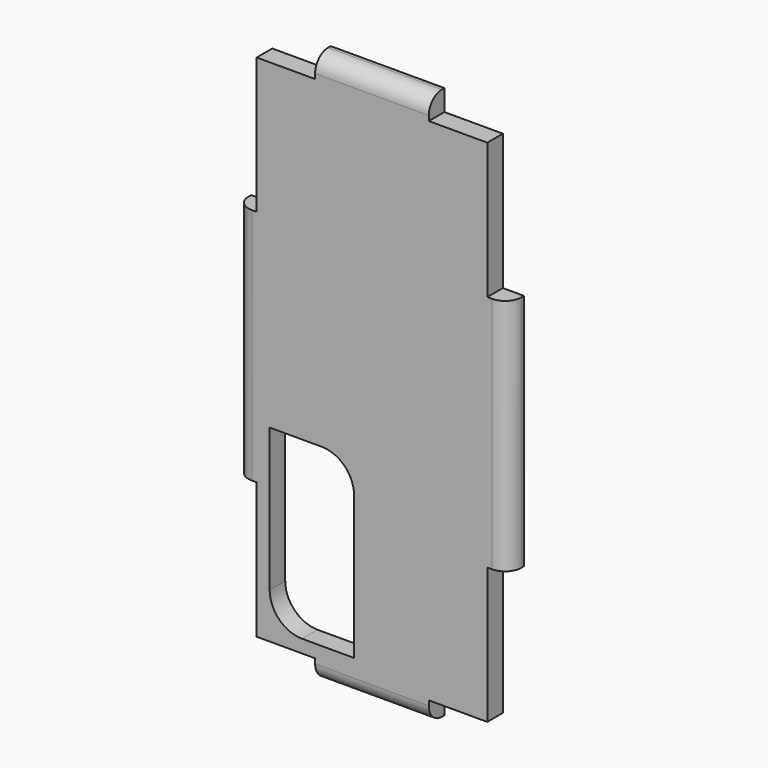
from build123d import *

# Parameters (mm, degrees)
F0_W     = 42
F0_H     = 85
F1_DEPTH = 3
F2_R     = 3
F4_DEPTH = 3
F5_W     = 13
F5_H     = 27
F6_DEPTH = 3
F7_R     = 5
F8_R     = 2.5


with BuildPart() as f1:
    # F0 (on Front) → F1 (new body)
    with BuildSketch(Plane.XZ):
        with Locations((-12.290565, -9.565399)):
            Rectangle(F0_W, F0_H)
    extrude(amount=F1_DEPTH)

    # F2
    f2_edges = [f1.edges().sort_by_distance(p)[0] for p in [
        (-33.290565, -1.5, 32.934601),
        (8.709435, -1.5, 32.934601),
        (8.709435, -1.5, -52.065399),
        (-33.290565, -1.5, -52.065399),
    ]]
    fillet(f2_edges, radius=F2_R)

    # F3 (on face) → F4 (cut, through all)
    with BuildSketch(Plane(origin=(0, 0, 0), x_dir=(-1, 0, 0), z_dir=(0, 1, 0))):
        with BuildLine():
            Line((-5.459435, 8.759601), (-5.459435, 29.684601))
            Line((-5.459435, 29.684601), (3.540565, 29.684601))
            Line((3.540565, 29.684601), (3.540565, 32.934601))
            Line((3.540565, 32.934601), (-5.709435, 32.934601))
            ThreePointArc((-5.709435, 32.934601), (-7.830755, 32.055922), (-8.709435, 29.934601))
            Line((-8.709435, 29.934601), (-8.709435, 8.759601))
            Line((-8.709435, 8.759601), (-5.459435, 8.759601))
        make_face()
        with BuildLine():
            Line((21.040565, 32.934601), (21.040565, 29.684601))
            Line((21.040565, 29.684601), (30.040565, 29.684601))
            Line((30.040565, 29.684601), (30.040565, 8.759601))
            Line((30.040565, 8.759601), (33.290565, 8.759601))
            Line((33.290565, 8.759601), (33.290565, 29.934601))
            ThreePointArc((33.290565, 29.934601), (32.411885, 32.055922), (30.290565, 32.934601))
            Line((30.290565, 32.934601), (21.040565, 32.934601))
        make_face()
        with BuildLine():
            Line((33.290565, -27.890399), (30.040565, -27.890399))
            Line((30.040565, -27.890399), (30.040565, -48.815399))
            Line((30.040565, -48.815399), (21.040565, -48.815399))
            Line((21.040565, -48.815399), (21.040565, -52.065399))
            Line((21.040565, -52.065399), (30.290565, -52.065399))
            ThreePointArc((30.290565, -52.065399), (32.411885, -51.186719), (33.290565, -49.065399))
            Line((33.290565, -49.065399), (33.290565, -27.890399))
        make_face()
        with BuildLine():
            Line((-5.459435, -48.815399), (-5.459435, -27.890399))
            Line((-5.459435, -27.890399), (-8.709435, -27.890399))
            Line((-8.709435, -27.890399), (-8.709435, -49.065399))
            ThreePointArc((-8.709435, -49.065399), (-7.830755, -51.186719), (-5.709435, -52.065399))
            Line((-5.709435, -52.065399), (3.540565, -52.065399))
            Line((3.540565, -52.065399), (3.540565, -48.815399))
            Line((3.540565, -48.815399), (-5.459435, -48.815399))
        make_face()
    extrude(amount=-F4_DEPTH, mode=Mode.SUBTRACT)

    # F5 (on face) → F6 (cut, through all)
    with BuildSketch(Plane.XZ.offset(3)):
        with Locations((-21.540565, -33.315399)):
            Rectangle(F5_W, F5_H)
    extrude(amount=-F6_DEPTH, mode=Mode.SUBTRACT)

    # F7
    f7_edges = [f1.edges().sort_by_distance(p)[0] for p in [
        (-15.040565, -1.5, -19.815399),
        (-28.040565, -1.5, -46.815399),
    ]]
    fillet(f7_edges, radius=F7_R)

    # F8
    f8_edges = [f1.edges().sort_by_distance(p)[0] for p in [
        (-12.290565, -3, 32.934601),
        (8.709435, -3, -9.565399),
        (-12.290565, -3, -52.065399),
        (-33.290565, -3, -9.565399),
    ]]
    fillet(f8_edges, radius=F8_R)


solid = f1.part
